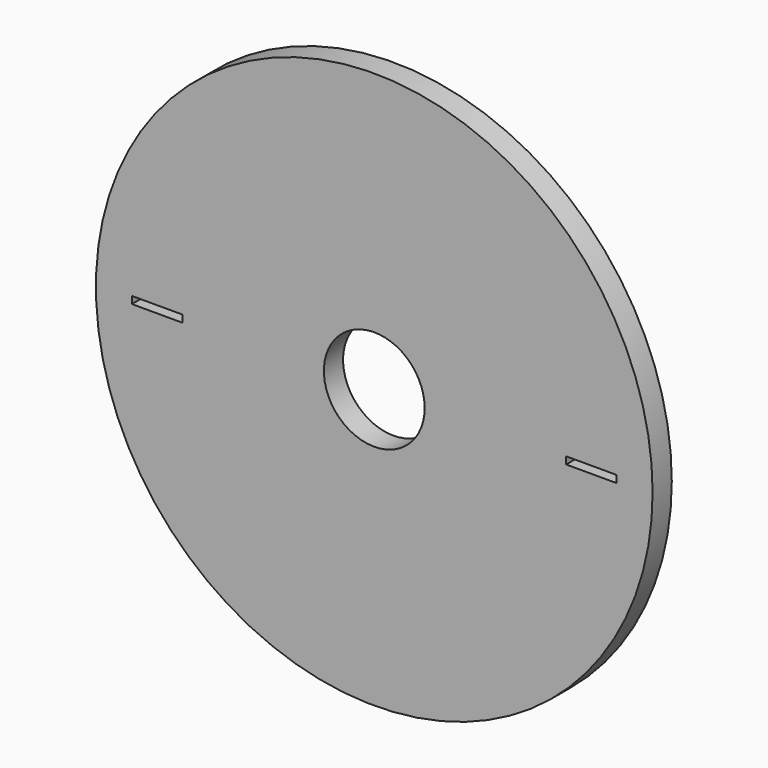
from build123d import *

# Parameters (mm, degrees)
F0_R     = 11.6
F0_W     = 2.1
F0_H     = 0.3
F0_R_2   = 2.1
F1_DEPTH = 1


with BuildPart() as f1:
    # F0 (on Front) → F1 (new body)
    with BuildSketch(Plane.XZ):
        Circle(F0_R)
        with Locations((-9.05, 0)):
            Rectangle(F0_W, F0_H, mode=Mode.SUBTRACT)
        Circle(F0_R_2, mode=Mode.SUBTRACT)
        with Locations((9.05, 0)):
            Rectangle(F0_W, F0_H, mode=Mode.SUBTRACT)
    extrude(amount=F1_DEPTH)


solid = f1.part
